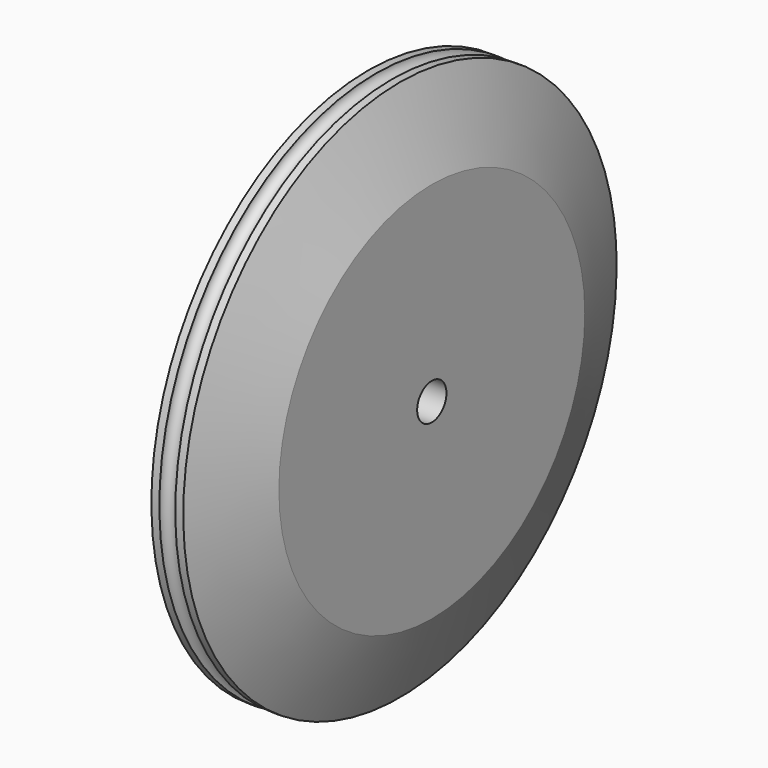
from build123d import *

# Parameters (mm, degrees)
F2_R     = 0.25
F4_R     = 0.575
F5_DEPTH = 3


with BuildPart() as f1:
    # F0 (on Front) → F1 (revolve)
    with BuildSketch(Plane.XZ):
        Polygon((-1.5, 0), (1.5, 0), (1.5, 6), (0.5, 8.5), (-0.5, 8.5), (-1.5, 6), align=None)
    revolve(axis=Axis((0, 0, 0), (-1, 0, 0)))

    # F2 (on Front) → F3 (revolve, cut)
    with BuildSketch(Plane.XZ):
        with Locations((0, 8.5)):
            Circle(F2_R)
    revolve(axis=Axis((0.73948, 0, 0), (1, 0, 0)), mode=Mode.SUBTRACT)

    # F4 (on face) → F5 (cut, through all)
    with BuildSketch(Plane.YZ.offset(1.5)):
        Circle(F4_R)
    extrude(amount=-F5_DEPTH, mode=Mode.SUBTRACT)


solid = f1.part
